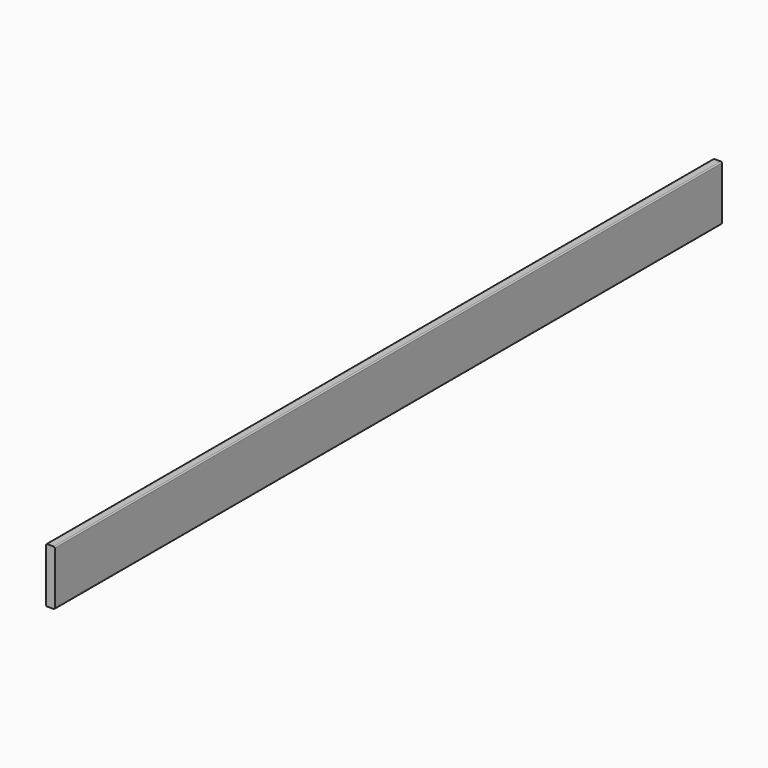
from build123d import *

# Parameters (mm, degrees)
F1_DEPTH = 1828.8


with BuildPart() as f1:
    # F0 (on Front) → F1 (new body, symmetric)
    with BuildSketch(Plane.XZ):
        with BuildLine():
            Line((14.224, 120.65), (-14.224, 120.65))
            ThreePointArc((-14.224, 120.65), (-17.636497, 119.236497), (-19.05, 115.824))
            Line((-19.05, 115.824), (-19.05, -115.824))
            ThreePointArc((-19.05, -115.824), (-17.636497, -119.236497), (-14.224, -120.65))
            Line((-14.224, -120.65), (14.224, -120.65))
            ThreePointArc((14.224, -120.65), (17.636497, -119.236497), (19.05, -115.824))
            Line((19.05, -115.824), (19.05, 115.824))
            ThreePointArc((19.05, 115.824), (17.636497, 119.236497), (14.224, 120.65))
        make_face()
    extrude(amount=F1_DEPTH, both=True)


solid = f1.part
